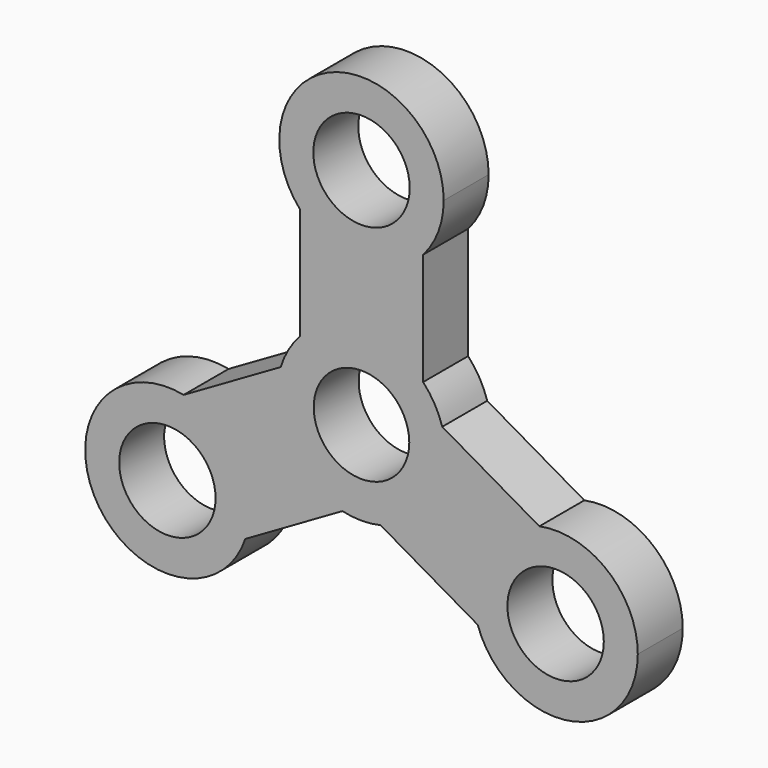
from build123d import *

# Parameters (mm, degrees)
F0_R     = 10.890936
F0_R_2   = 10.799032
F1_DEPTH = 12.7


with BuildPart() as f1:
    # F0 (on Front) → F1 (new body)
    with BuildSketch(Plane.XZ):
        with BuildLine():
            ThreePointArc((13.928364, 38.366641), (17.3715, 44.084221), (18.57085, 50.649848))
            ThreePointArc((18.57085, 50.649848), (-6.565627, 68.021348), (-13.928364, 38.366641))
            ThreePointArc((-13.928364, 38.366641), (0, 32.078998), (13.928364, 38.366641))
        make_face()
        with Locations((0, 50.649848)):
            Circle(F0_R, mode=Mode.SUBTRACT)
        with BuildLine():
            ThreePointArc((13.928364, 38.366641), (0, 32.078998), (-13.928364, 38.366641))
            Line((-13.928364, 38.366641), (-13.928364, 13.030285))
            ThreePointArc((-13.928364, 13.030285), (0, 19.073218), (13.928364, 13.030285))
            Line((13.928364, 13.030285), (13.928364, 38.366641))
        make_face()
        with BuildLine():
            ThreePointArc((-4.320376, -18.577459), (-16.517891, -9.536609), (-18.248739, 5.547174))
            Line((-18.248739, 5.547174), (-40.190668, -7.121004))
            ThreePointArc((-40.190668, -7.121004), (-29.492305, -13.563577), (-25.293205, -25.324924))
            ThreePointArc((-25.293205, -25.324924), (-25.537081, -28.324674), (-26.262304, -31.245637))
            Line((-26.262304, -31.245637), (-4.320376, -18.577459))
        make_face()
        with BuildLine():
            ThreePointArc((13.928364, 13.030285), (0, 19.073218), (-13.928364, 13.030285))
            ThreePointArc((-13.928364, 13.030285), (-16.517891, 9.536609), (-18.248739, 5.547174))
            ThreePointArc((-18.248739, 5.547174), (-16.517891, -9.536609), (-4.320376, -18.577459))
            ThreePointArc((-4.320376, -18.577459), (0, -19.073218), (4.320376, -18.577459))
            ThreePointArc((4.320376, -18.577459), (14.936383, -11.861369), (19.073218, 0))
            ThreePointArc((19.073218, 0), (18.865972, 2.804055), (18.248739, 5.547174))
            ThreePointArc((18.248739, 5.547174), (16.517891, 9.536609), (13.928364, 13.030285))
        make_face()
        Circle(F0_R_2, mode=Mode.SUBTRACT)
        with BuildLine():
            ThreePointArc((-25.293205, -25.324924), (-29.492305, -13.563577), (-40.190668, -7.121004))
            ThreePointArc((-40.190668, -7.121004), (-59.946883, -34.610349), (-26.262304, -31.245637))
            ThreePointArc((-26.262304, -31.245637), (-25.537081, -28.324674), (-25.293205, -25.324924))
        make_face()
        with Locations((-43.864055, -25.324924)):
            Circle(F0_R, mode=Mode.SUBTRACT)
        with BuildLine():
            Line((40.190668, -7.121004), (18.248739, 5.547174))
            ThreePointArc((18.248739, 5.547174), (18.865972, 2.804055), (19.073218, 0))
            ThreePointArc((19.073218, 0), (14.936383, -11.861369), (4.320376, -18.577459))
            Line((4.320376, -18.577459), (26.262304, -31.245637))
            ThreePointArc((26.262304, -31.245637), (27.781227, -16.039499), (40.190668, -7.121004))
        make_face()
        with BuildLine():
            ThreePointArc((62.434905, -25.324924), (55.625402, -10.953174), (40.190668, -7.121004))
            ThreePointArc((40.190668, -7.121004), (27.781227, -16.039499), (26.262304, -31.245637))
            ThreePointArc((26.262304, -31.245637), (46.863805, -43.651898), (62.434905, -25.324924))
        make_face()
        with Locations((43.864055, -25.324924)):
            Circle(F0_R, mode=Mode.SUBTRACT)
    extrude(amount=F1_DEPTH)


solid = f1.part
